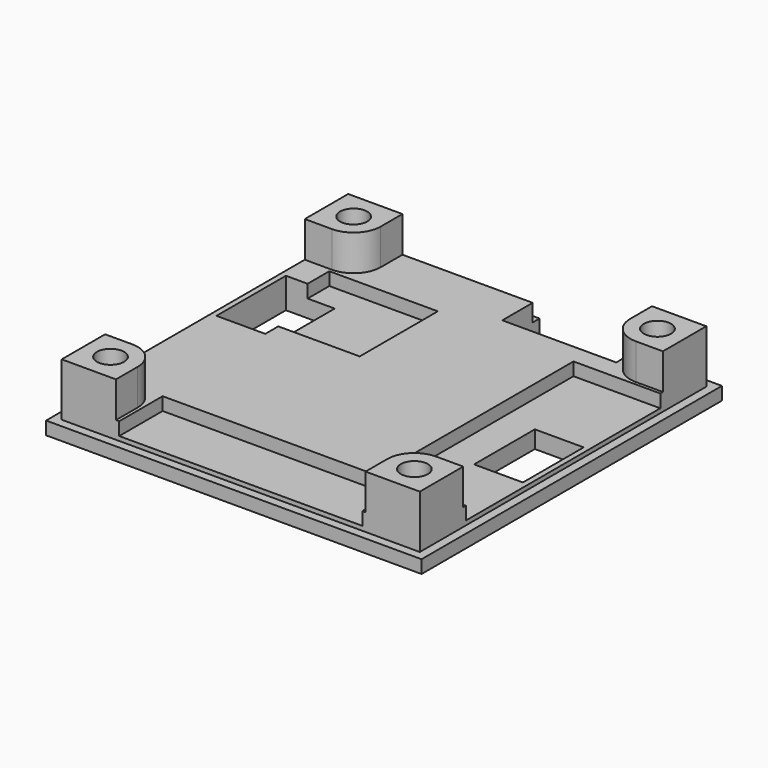
from build123d import *

# Parameters (mm, degrees)
CLONE2D_W       = 34.6
CLONE2D_H       = 34.6
PAD004_DEPTH    = 1.2
SKETCH019_W     = 33
SKETCH019_H     = 33
PAD005_DEPTH    = 1.6
PAD006_DEPTH    = 3.3
SKETCH021_W     = 8
SKETCH021_H     = 22.4
SKETCH021_W_2   = 22.4
SKETCH021_H_2   = 5
SKETCH021_W_3   = 10
SKETCH021_H_3   = 9
POCKET014_DEPTH = 1.2
SKETCH022_R     = 2.5
POCKET015_DEPTH = 0.5
SKETCH023_R     = 1.25
POCKET016_DEPTH = 6.101
SKETCH024_W     = 10.5
SKETCH024_H     = 4.5
SKETCH024_W_2   = 4.5
SKETCH024_H_2   = 8
SKETCH024_H_3   = 7
POCKET017_DEPTH = 2.801


with BuildPart() as part:
    # Clone2D → Pad004 (new body)
    with BuildSketch(Plane.XY):
        Rectangle(CLONE2D_W, CLONE2D_H)
    extrude(amount=PAD004_DEPTH)

    # Sketch019 → Pad005 (new body)
    with BuildSketch(Plane.XY.offset(1.2)):
        Rectangle(SKETCH019_W, SKETCH019_H)
    extrude(amount=PAD005_DEPTH)

    # Sketch020 → Pad006 (new body)
    with BuildSketch(Plane.XY.offset(2.8)):
        with BuildLine():
            ThreePointArc((-14, 11.5), (-12.232233, 12.232233), (-11.5, 14))
            Line((-11.5, 16.5), (-11.5, 14))
            Line((-11.5, 16.5), (-16.5, 16.5))
            Line((-16.5, 16.5), (-16.5, 11.5))
            Line((-16.5, 11.5), (-14, 11.5))
        make_face()
        with BuildLine():
            ThreePointArc((11.5, 14), (12.232233, 12.232233), (14, 11.5))
            Line((14, 11.5), (16.5, 11.5))
            Line((16.5, 11.5), (16.5, 16.5))
            Line((16.5, 16.5), (11.5, 16.5))
            Line((11.5, 16.5), (11.5, 14))
        make_face()
        with BuildLine():
            ThreePointArc((-11.5, -14), (-12.232233, -12.232233), (-14, -11.5))
            Line((-16.5, -11.5), (-14, -11.5))
            Line((-16.5, -16.5), (-16.5, -11.5))
            Line((-11.5, -16.5), (-16.5, -16.5))
            Line((-11.5, -14), (-11.5, -16.5))
        make_face()
        with BuildLine():
            ThreePointArc((14, -11.5), (12.232233, -12.232233), (11.5, -14))
            Line((11.5, -14), (11.5, -16.5))
            Line((11.5, -16.5), (16.5, -16.5))
            Line((16.5, -16.5), (16.5, -11.5))
            Line((16.5, -11.5), (14, -11.5))
        make_face()
    extrude(amount=PAD006_DEPTH)

    # Sketch021 → Pocket014 (cut)
    with BuildSketch(Plane.XY.offset(2.8)):
        with Locations((12.5, 0)):
            Rectangle(SKETCH021_W, SKETCH021_H)
        with Locations((0, -14)):
            Rectangle(SKETCH021_W_2, SKETCH021_H_2)
        with Locations((-9, 6.7)):
            Rectangle(SKETCH021_W_3, SKETCH021_H_3)
    extrude(amount=-POCKET014_DEPTH, mode=Mode.SUBTRACT)

    # Sketch022 → Pocket015 (cut)
    with BuildSketch(Plane(origin=(0, 0, 0), x_dir=(1, 0, 0), z_dir=(0, 0, -1))):
        with Locations((-14, 14)):
            Circle(SKETCH022_R)
        with Locations((14, 14)):
            Circle(SKETCH022_R)
        with Locations((-14, -14)):
            Circle(SKETCH022_R)
        with Locations((14, -14)):
            Circle(SKETCH022_R)
    extrude(amount=-POCKET015_DEPTH, mode=Mode.SUBTRACT)

    # Sketch023 → Pocket016 (cut, through all)
    with BuildSketch(Plane(origin=(0, 0, 0), x_dir=(1, 0, 0), z_dir=(0, 0, -1))):
        with Locations((-14, 14)):
            Circle(SKETCH023_R)
        with Locations((14, 14)):
            Circle(SKETCH023_R)
        with Locations((-14, -14)):
            Circle(SKETCH023_R)
        with Locations((14, -14)):
            Circle(SKETCH023_R)
    extrude(amount=-POCKET016_DEPTH, mode=Mode.SUBTRACT)

    # Sketch024 → Pocket017 (cut, through all)
    with BuildSketch(Plane.XY.offset(2.8)):
        with Locations((5.75, 15.25)):
            Rectangle(SKETCH024_W, SKETCH024_H)
        with Locations((-13.75, 4.7)):
            Rectangle(SKETCH024_W_2, SKETCH024_H_2)
        with Locations((13.75, -0.5)):
            Rectangle(SKETCH024_W_2, SKETCH024_H_3)
    extrude(amount=-POCKET017_DEPTH, mode=Mode.SUBTRACT)


solid = part.part
